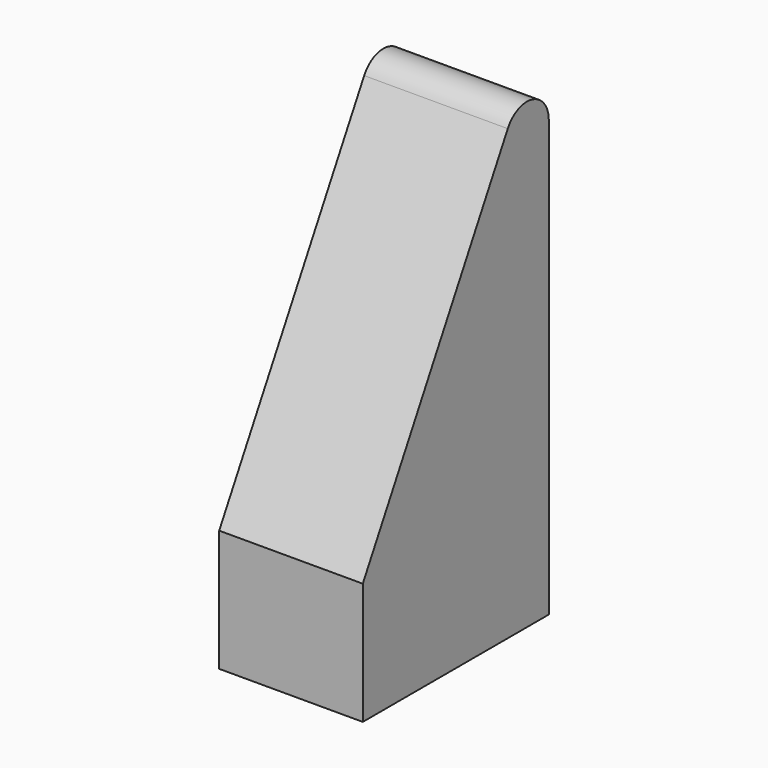
from build123d import *

# Parameters (mm, degrees)
BOX112015002006_W          = 23
BOX112015002006_H          = 34
BOX112015002006_DEPTH      = 80
BOX112015002006_ROLL_ANGLE = -29
BOX112015002005_W          = 21
BOX112015002005_H          = 34
BOX112015002005_DEPTH      = 80
FILLET002_R                = 4


with BuildPart() as cube076:
    # Box112015002006 → Box112015002006 (new body)
    with BuildSketch(Plane.XY):
        with Locations((11.5, 17)):
            Rectangle(BOX112015002006_W, BOX112015002006_H)
    extrude(amount=BOX112015002006_DEPTH)


with BuildPart() as cube076_1:
    # Box112015002006 roll: moved
    add(cube076.part.rotate(Axis((0, 0, 0), (1, 0, 0)), BOX112015002006_ROLL_ANGLE))


with BuildPart() as cube076_2:
    # Box112015002006 placement: moved
    add(cube076_1.part.moved(Location((10, -48, -6))))


with BuildPart() as fillet002:
    # Box112015002005 → Box112015002005 (new body)
    with BuildSketch(Plane(origin=(11, -17, -38), x_dir=(1, 0, 0), z_dir=(0, 0, 1))):
        with Locations((10.5, 17)):
            Rectangle(BOX112015002005_W, BOX112015002005_H)
    extrude(amount=BOX112015002005_DEPTH)

    # Cut131: cut Cube076
    add(cube076_2.part, mode=Mode.SUBTRACT)

    # Fillet002
    fillet002_edges = [fillet002.edges().sort_by_distance(p)[0] for p in [
        (21.5, 17, 41.132483),
    ]]
    fillet(fillet002_edges, radius=FILLET002_R)


with BuildPart() as fillet002_1:
    # Fillet002 placement: moved
    add(fillet002.part.moved(Location((0, 0, 10))))


solid = fillet002_1.part
